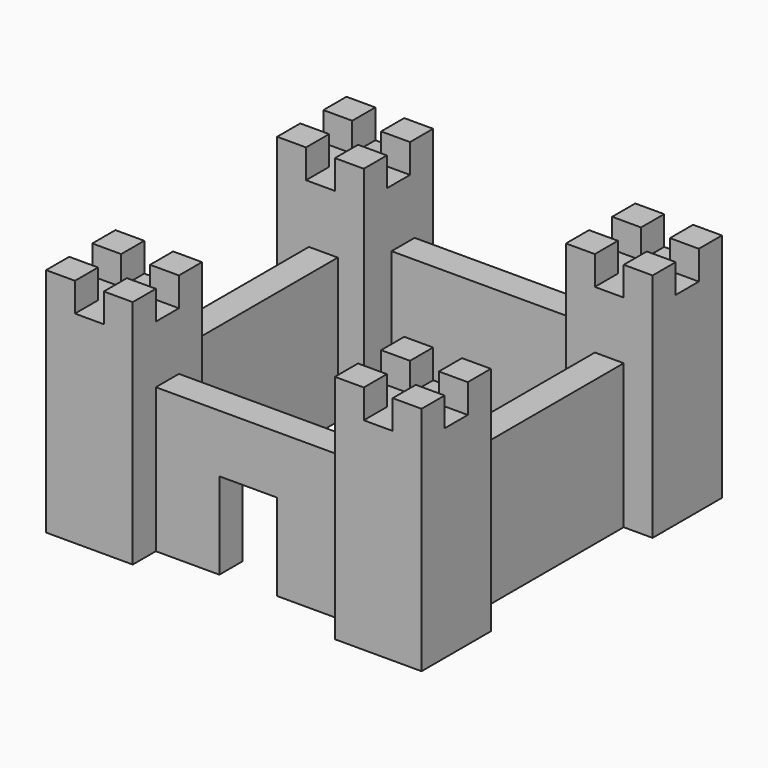
from build123d import *

# Parameters (mm, degrees)
BOX009_W               = 20
BOX009_H               = 30
BOX009_DEPTH           = 30
BOX008_W               = 70
BOX008_H               = 10
BOX008_DEPTH           = 50
BOX008_PLACEMENT_ANGLE = 90
BOX005_W               = 70
BOX005_H               = 10
BOX005_DEPTH           = 50
BOX001_W               = 10
BOX001_H               = 10
BOX001_DEPTH           = 10
BOX004_W               = 10
BOX004_H               = 10
BOX004_DEPTH           = 10
BOX003_W               = 10
BOX003_H               = 10
BOX003_DEPTH           = 10
BOX002_W               = 10
BOX002_H               = 10
BOX002_DEPTH           = 10
BOX_W                  = 30
BOX_H                  = 30
BOX_DEPTH              = 70
BOX007_W               = 70
BOX007_H               = 10
BOX007_DEPTH           = 50
BOX007_PLACEMENT_ANGLE = 90
BOX006_W               = 70
BOX006_H               = 10
BOX006_DEPTH           = 50


with BuildPart() as main_door:
    # Box009 → Box009 (new body)
    with BuildSketch(Plane(origin=(52, 0, 0), x_dir=(1, 0, 0), z_dir=(0, 0, 1))):
        with Locations((10, 15)):
            Rectangle(BOX009_W, BOX009_H)
    extrude(amount=BOX009_DEPTH)


with BuildPart() as right_wall:
    # Box008 → Box008 (new body)
    with BuildSketch(Plane.XY):
        with Locations((35, 5)):
            Rectangle(BOX008_W, BOX008_H)
    extrude(amount=BOX008_DEPTH)


with BuildPart() as right_wall_1:
    # Box008 placement: moved
    add(right_wall.part.moved(Location((120, 30, 0))).rotate(Axis((120, 30, 0), (0, 0, 1)), BOX008_PLACEMENT_ANGLE))


with BuildPart() as front_wall:
    # Box005 → Box005 (new body)
    with BuildSketch(Plane(origin=(30, 10, 0), x_dir=(1, 0, 0), z_dir=(0, 0, 1))):
        with Locations((35, 5)):
            Rectangle(BOX005_W, BOX005_H)
    extrude(amount=BOX005_DEPTH)


with BuildPart() as cube001:
    # Box001 → Box001 (new body)
    with BuildSketch(Plane.XY.offset(70)):
        with Locations((5, 5)):
            Rectangle(BOX001_W, BOX001_H)
    extrude(amount=BOX001_DEPTH)


with BuildPart() as cube004:
    # Box004 → Box004 (new body)
    with BuildSketch(Plane(origin=(20, 20, 70), x_dir=(1, 0, 0), z_dir=(0, 0, 1))):
        with Locations((5, 5)):
            Rectangle(BOX004_W, BOX004_H)
    extrude(amount=BOX004_DEPTH)


with BuildPart() as cube003:
    # Box003 → Box003 (new body)
    with BuildSketch(Plane(origin=(0, 20, 70), x_dir=(1, 0, 0), z_dir=(0, 0, 1))):
        with Locations((5, 5)):
            Rectangle(BOX003_W, BOX003_H)
    extrude(amount=BOX003_DEPTH)


with BuildPart() as cube002:
    # Box002 → Box002 (new body)
    with BuildSketch(Plane(origin=(20, 0, 70), x_dir=(1, 0, 0), z_dir=(0, 0, 1))):
        with Locations((5, 5)):
            Rectangle(BOX002_W, BOX002_H)
    extrude(amount=BOX002_DEPTH)


with BuildPart() as cube:
    # Box → Box (new body)
    with BuildSketch(Plane.XY):
        with Locations((15, 15)):
            Rectangle(BOX_W, BOX_H)
    extrude(amount=BOX_DEPTH)


with BuildPart() as fusion002:
    # Fusion002 base: copy of Cube
    add(cube.part)

    # Fusion002: union Cube001, Cube004, Cube003, Cube002
    add(cube001.part)
    add(cube004.part)
    add(cube003.part)
    add(cube002.part)


with BuildPart() as fusion002_1:
    # Fusion002 placement: moved
    add(fusion002.part.moved(Location((0, 100, 0))))


with BuildPart() as left_wall:
    # Box007 → Box007 (new body)
    with BuildSketch(Plane.XY):
        with Locations((35, 5)):
            Rectangle(BOX007_W, BOX007_H)
    extrude(amount=BOX007_DEPTH)


with BuildPart() as left_wall_1:
    # Box007 placement: moved
    add(left_wall.part.moved(Location((21, 30, 0))).rotate(Axis((21, 30, 0), (0, 0, 1)), BOX007_PLACEMENT_ANGLE))


with BuildPart() as fusion001:
    # Fusion001 base: copy of Cube
    add(cube.part)

    # Fusion001: union Cube001, Cube004, Cube003, Cube002
    add(cube001.part)
    add(cube004.part)
    add(cube003.part)
    add(cube002.part)


with BuildPart() as fusion001_1:
    # Fusion001 placement: moved
    add(fusion001.part.moved(Location((100, 0, 0))))


with BuildPart() as back_wall:
    # Box006 → Box006 (new body)
    with BuildSketch(Plane(origin=(30, 112, 0), x_dir=(1, 0, 0), z_dir=(0, 0, 1))):
        with Locations((35, 5)):
            Rectangle(BOX006_W, BOX006_H)
    extrude(amount=BOX006_DEPTH)


with BuildPart() as fusion003:
    # Fusion003 base: copy of Cube
    add(cube.part)

    # Fusion003: union Cube001, Cube004, Cube003, Cube002
    add(cube001.part)
    add(cube004.part)
    add(cube003.part)
    add(cube002.part)


with BuildPart() as fusion003_1:
    # Fusion003 placement: moved
    add(fusion003.part.moved(Location((100, 100, 0))))


with BuildPart() as castle:
    # Fusion base: copy of Cube
    add(cube.part)

    # Fusion: union Cube001, Cube004, Cube003, Cube002
    add(cube001.part)
    add(cube004.part)
    add(cube003.part)
    add(cube002.part)

    # Fusion004: union right-wall, front-wall, Fusion002, left-wall, Fusion001, back-wall, Fusion003
    add(right_wall_1.part)
    add(front_wall.part)
    add(fusion002_1.part)
    add(left_wall_1.part)
    add(fusion001_1.part)
    add(back_wall.part)
    add(fusion003_1.part)

    # Cut: cut main_door
    add(main_door.part, mode=Mode.SUBTRACT)


solid = castle.part
